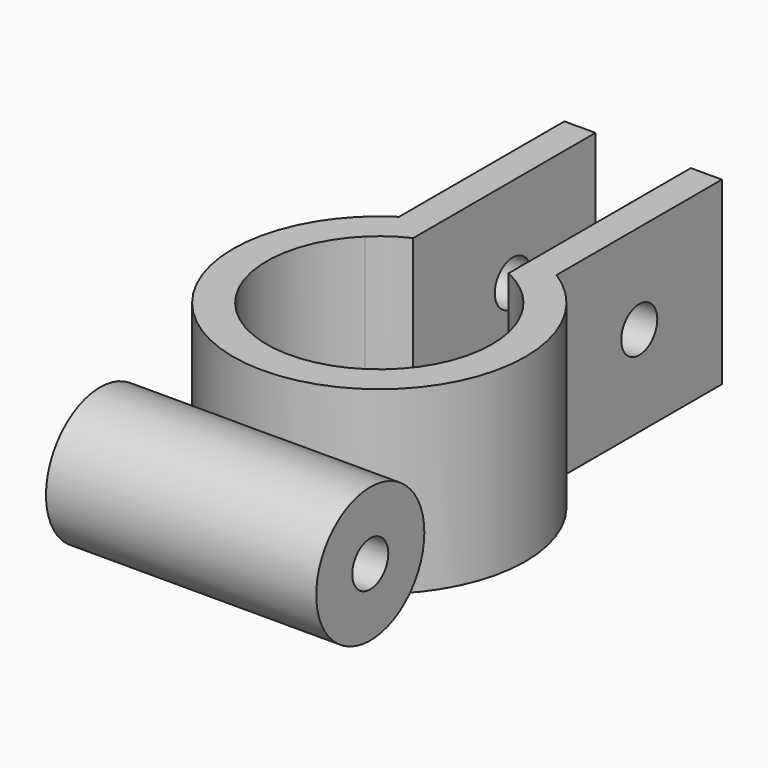
from build123d import *

# Parameters (mm, degrees)
F2_DEPTH = 12.7
F1_R     = 4.7625
F1_R_2   = 1.5875
F3_DEPTH = 9.525
F4_R     = 1.5875
F5_DEPTH = 15.859309


with BuildPart() as f2:
    # F0 (on Top) → F2 (new body)
    with BuildSketch(Plane.XY):
        with BuildLine():
            Line((-5.552635, 5.67205), (-5.552635, 8.681886))
            ThreePointArc((-5.552635, 8.681886), (0, -10.305673), (5.552635, 8.681886))
            Line((5.552635, 8.681886), (5.552635, 5.67205))
            ThreePointArc((5.552635, 5.67205), (7.317033, 3.076513), (7.9375, 0))
            ThreePointArc((7.9375, 0), (-3.076513, -7.317033), (-5.552635, 5.67205))
        make_face()
        with BuildLine():
            Line((-5.552635, 23.249359), (-5.552635, 8.681886))
            Line((-5.552635, 8.681886), (-5.552635, 5.67205))
            ThreePointArc((-5.552635, 5.67205), (-4.520661, 6.52438), (-3.360147, 7.191197))
            Line((-3.360147, 7.191197), (-3.360147, 23.249359))
            Line((-3.360147, 23.249359), (-5.552635, 23.249359))
        make_face()
        with BuildLine():
            Line((5.552635, 5.67205), (5.552635, 8.681886))
            Line((5.552635, 8.681886), (5.552635, 23.249359))
            Line((5.552635, 23.249359), (3.360147, 23.249359))
            Line((3.360147, 23.249359), (3.360147, 7.191197))
            ThreePointArc((3.360147, 7.191197), (4.520661, 6.52438), (5.552635, 5.67205))
        make_face()
    extrude(amount=F2_DEPTH)

    # F1 (on Right) → F3 (join, symmetric)
    with BuildSketch(Plane.YZ):
        with Locations((-12.700004, 4.7625)):
            Circle(F1_R)
        with Locations((-12.700004, 4.7625)):
            Circle(F1_R_2, mode=Mode.SUBTRACT)
    extrude(amount=F3_DEPTH, both=True)

    # F4 (on face) → F5 (cut, through all)
    with BuildSketch(Plane.YZ.offset(5.552635)):
        with Locations((15.965623, 6.35)):
            Circle(F4_R)
    extrude(amount=-F5_DEPTH, mode=Mode.SUBTRACT)


with BuildPart() as f6_1:
    # F6: copy of F2
    add(f2.part)


solid = f2.part
